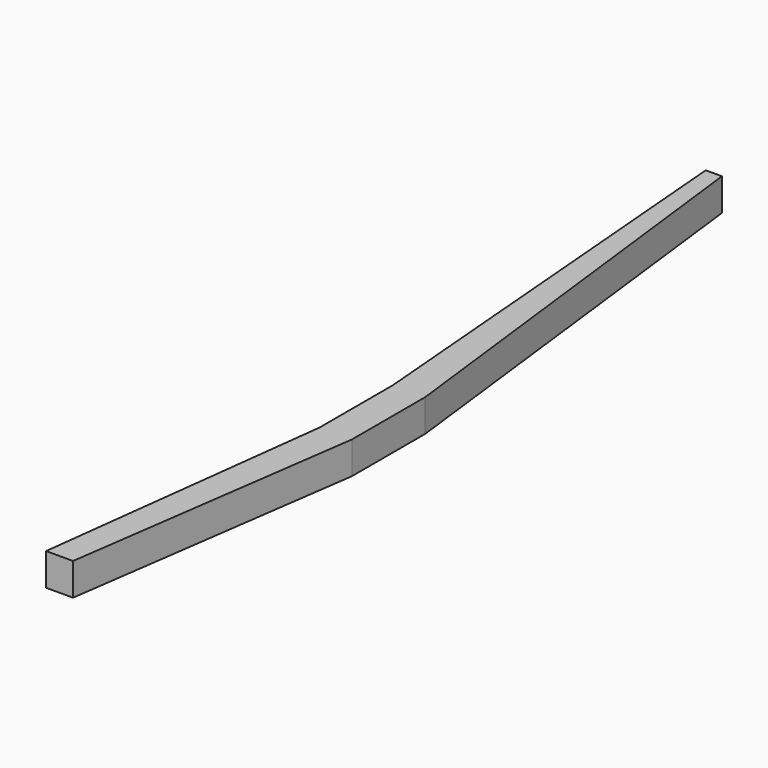
from build123d import *

# Parameters (mm, degrees)
F0_W     = 88.9
F0_H     = 38.1
F1_DEPTH = 971.55
F3_DEPTH = 38.101


with BuildPart() as f1:
    # F0 (on Front) → F1 (new body)
    with BuildSketch(Plane.XZ):
        with Locations((44.45, 19.05)):
            Rectangle(F0_W, F0_H)
    extrude(amount=-F1_DEPTH)

    # F2 (on face) → F3 (cut, through all)
    with BuildSketch(Plane.XY.offset(38.1)):
        Polygon((0, 971.55), (0, 0), (42.733887, 349.25), (42.733887, 457.2), align=None)
        Polygon((80.833887, 457.2), (80.833887, 349.25), (31.75, 0), (88.9, 0), (88.9, 971.55), (19.05, 971.55), align=None)
    extrude(amount=-F3_DEPTH, mode=Mode.SUBTRACT)


solid = f1.part
